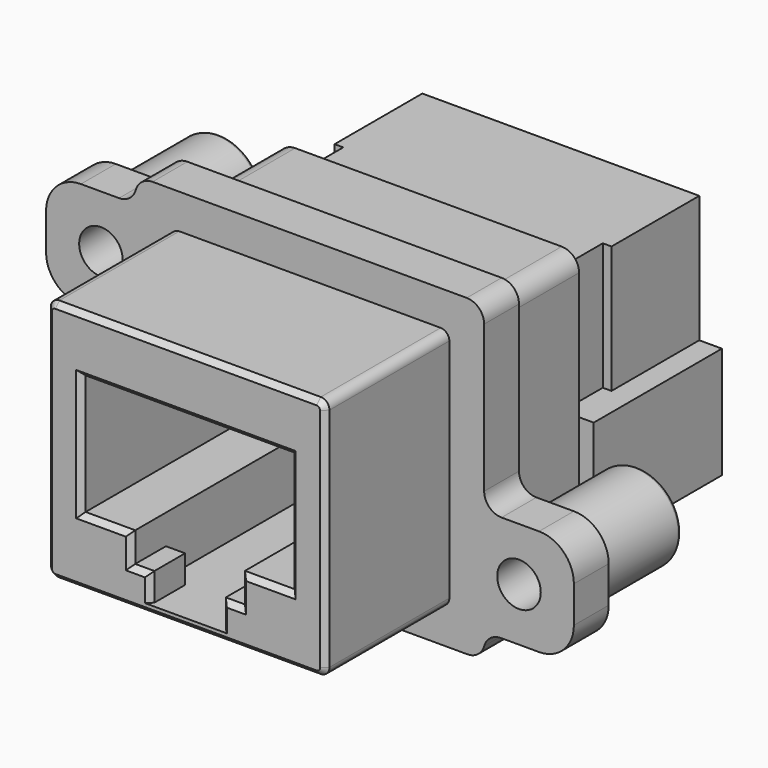
from build123d import *

# Parameters (mm, degrees)
PAD_DEPTH            = 2.5
PAD001_DEPTH         = 8.9
SKETCH002_R          = 2.5
PAD002_DEPTH         = 8.5
PAD003_DEPTH         = 2.4
POCKET_DEPTH         = 8.501
POCKET_DEPTH_BACK    = 8.901
SKETCH014_W          = 1.1
SKETCH014_H          = 1.6
PAD004_DEPTH         = 2.5
SKETCH015_R          = 1.25
POCKET001_DEPTH      = 5.5
SKETCH016_W          = 14.9
SKETCH016_H          = 13
POCKET002_DEPTH      = 2.9
CHAMFER_SIZE         = 0.3
FILLET_R             = 0.5
FILLET001_R          = 0.2
SKETCH024_W          = 0.51
SKETCH024_H          = 0.51
PAD010_DEPTH         = 3.81
PAD010_DEPTH_BACK    = 2.54
ARRAY002_X_COUNT     = 2
ARRAY002_X_PITCH     = 2.54
PAD009_DEPTH         = 0.23
ARRAY001_X_COUNT     = 4
ARRAY001_X_PITCH     = 2.54
PAD008_DEPTH         = 0.23
ARRAY_X_COUNT        = 4
ARRAY_X_PITCH        = 2.54
SKETCH017_W          = 14.9
SKETCH017_H          = 13
PAD005_DEPTH         = 2.9
PAD005_DEPTH_BACK    = 9.5
PAD006_DEPTH         = 9.2
SKETCH019_W          = 0.5
SKETCH019_H          = 13
PAD007_DEPTH         = 6.3
SKETCH020_W          = 14.3
SKETCH020_H          = 9.8
POCKET003_DEPTH      = 5
SKETCH021_W          = 4.5
SKETCH021_H          = 2.54
POCKET004_DEPTH      = 61.796315
POCKET004_DEPTH_BACK = 55.196315


with BuildPart() as body:
    # Sketch → Pad (new body)
    with BuildSketch(Plane.XZ):
        with BuildLine():
            Line((9, 16.7), (-9.038556, 16.7))
            ThreePointArc((-9.038556, 16.7), (-9.640636, 16.498436), (-10, 15.975))
            ThreePointArc((-10.961444, 15.25), (-10.359364, 15.451564), (-10, 15.975))
            Line((-10.961444, 15.25), (-13.15, 15.25))
            ThreePointArc((-13.15, 15.25), (-14.564214, 14.664214), (-15.15, 13.25))
            Line((-15.15, 13.25), (-15.15, 11.15))
            ThreePointArc((-15.15, 11.15), (-14.564214, 9.735786), (-13.15, 9.15))
            Line((-13.15, 9.15), (-11, 9.15))
            ThreePointArc((-10, 8.15), (-10.292893, 8.857107), (-11, 9.15))
            Line((-10, 8.15), (-10, -0.3))
            ThreePointArc((-10, -0.3), (-9.707107, -1.007107), (-9, -1.3))
            Line((-9, -1.3), (9.038555, -1.3))
            ThreePointArc((9.038555, -1.3), (9.640636, -1.098435), (10, -0.574996))
            ThreePointArc((10.961443, 0.15), (10.359365, -0.051563), (10, -0.574996))
            Line((10.961443, 0.15), (13.15, 0.15))
            ThreePointArc((13.15, 0.15), (14.564214, 0.735786), (15.15, 2.15))
            Line((15.15, 2.15), (15.15, 4.25))
            ThreePointArc((15.15, 4.25), (14.564214, 5.664214), (13.15, 6.25))
            Line((13.15, 6.25), (11, 6.25))
            ThreePointArc((10, 7.25), (10.292893, 6.542893), (11, 6.25))
            Line((10, 7.25), (10, 15.7))
            ThreePointArc((10, 15.7), (9.707107, 16.407107), (9, 16.7))
        make_face()
    extrude(amount=-PAD_DEPTH)

    # Sketch001 → Pad001 (join)
    with BuildSketch(Plane.XZ):
        with BuildLine():
            Line((-7.5, 14.7), (7.5, 14.7))
            ThreePointArc((8, 14.2), (7.853553, 14.553553), (7.5, 14.7))
            Line((8, 14.2), (8, 1.2))
            ThreePointArc((7.5, 0.7), (7.853553, 0.846447), (8, 1.2))
            Line((7.5, 0.7), (-7.5, 0.7))
            ThreePointArc((-8, 1.2), (-7.853553, 0.846447), (-7.5, 0.7))
            Line((-8, 1.2), (-8, 14.2))
            ThreePointArc((-7.5, 14.7), (-7.853553, 14.553553), (-8, 14.2))
        make_face()
    extrude(amount=PAD001_DEPTH)

    # Sketch002 → Pad002 (join)
    with BuildSketch(Plane.XZ):
        with Locations((-12, 12.2)):
            Circle(SKETCH002_R)
        with Locations((12, 3.2)):
            Circle(SKETCH002_R)
        with BuildLine():
            Line((-7.65, 15.4), (7.65, 15.4))
            ThreePointArc((8.65, 14.4), (8.357107, 15.107107), (7.65, 15.4))
            Line((8.65, 14.4), (8.65, 1))
            ThreePointArc((7.65, 0), (8.357107, 0.292893), (8.65, 1))
            Line((7.65, 0), (-7.65, 0))
            ThreePointArc((-8.65, 1), (-8.357107, 0.292893), (-7.65, 0))
            Line((-8.65, 1), (-8.65, 14.4))
            ThreePointArc((-7.65, 15.4), (-8.357107, 15.107107), (-8.65, 14.4))
        make_face()
    extrude(amount=-PAD002_DEPTH)

    # Sketch003 → Pad003 (join)
    with BuildSketch(Plane.XY):
        Polygon((-5, 7.54), (-5.85, 6.5), (-5, 5.46), (-4.15, 6.5), align=None)
        Polygon((5, 5.65), (3.96, 6.5), (5, 7.35), (6.04, 6.5), align=None)
    extrude(amount=-PAD003_DEPTH)

    # Sketch013 → Pocket (cut, two sides)
    with BuildSketch(Plane.XZ) as pocket_sk:
        Polygon((-6, 11.4), (6, 11.4), (6, 4.5), (3.15, 4.5), (3.15, 1.2), (-3.15, 1.2), (-3.15, 4.5), (-6, 4.5), align=None)
    extrude(amount=-POCKET_DEPTH, mode=Mode.SUBTRACT)
    extrude(pocket_sk.sketch, amount=POCKET_DEPTH_BACK, mode=Mode.SUBTRACT)

    # Sketch014 → Pad004 (join)
    with BuildSketch(Plane.XZ.offset(8.9)):
        with Locations((-2.6, 2)):
            Rectangle(SKETCH014_W, SKETCH014_H)
        with Locations((2.6, 2)):
            Rectangle(SKETCH014_W, SKETCH014_H)
    extrude(amount=-PAD004_DEPTH)

    # Sketch015 → Pocket001 (cut)
    with BuildSketch(Plane.XZ):
        with Locations((-12, 12.2)):
            Circle(SKETCH015_R)
        with Locations((12, 3.2)):
            Circle(SKETCH015_R)
    extrude(amount=-POCKET001_DEPTH, mode=Mode.SUBTRACT)

    # Sketch016 → Pocket002 (cut)
    with BuildSketch(Plane.XZ.offset(-8.5)):
        with Locations((0, 7.7)):
            Rectangle(SKETCH016_W, SKETCH016_H)
    extrude(amount=POCKET002_DEPTH, mode=Mode.SUBTRACT)

    # Chamfer
    chamfer_edges = [body.edges().sort_by_distance(p)[0] for p in [
        (0, -8.9, 14.7),
        (0, -8.9, 11.4),
        (-6, -8.9, 7.95),
        (6, -8.9, 7.95),
        (4.575, -8.9, 4.5),
        (-4.575, -8.9, 4.5),
        (-3.15, -8.9, 3.65),
        (-2.05, -8.9, 2),
        (-2.6, -8.9, 2.8),
        (3.15, -8.9, 3.65),
        (2.6, -8.9, 2.8),
        (2.05, -8.9, 2),
    ]]
    chamfer(chamfer_edges, length=CHAMFER_SIZE)

    # Fillet
    fillet_edges = [body.edges().sort_by_distance(p)[0] for p in [
        (9.5, 2.5, 3.2),
        (-14.5, 2.5, 12.2),
    ]]
    fillet(fillet_edges, radius=FILLET_R)

    # Fillet001
    fillet001_edges = [body.edges().sort_by_distance(p)[0] for p in [
        (-14.5, 8.5, 12.2),
        (9.5, 8.5, 3.2),
    ]]
    fillet(fillet001_edges, radius=FILLET001_R)


with BuildPart() as array002:
    # Sketch024 → Pad010 (new body, two sides)
    with BuildSketch(Plane.XY) as pad010_sk:
        with Locations((-6.53, 10.5)):
            Rectangle(SKETCH024_W, SKETCH024_H)
    extrude(amount=PAD010_DEPTH)
    extrude(pad010_sk.sketch, amount=-PAD010_DEPTH_BACK)

    # Array002 X: Array002 ×2


with BuildPart() as array002_1:
    add(array002.part)
    with Locations(*[(i * ARRAY002_X_PITCH, 0, 0) for i in range(1, ARRAY002_X_COUNT)]):
        add(array002.part)


with BuildPart() as array001:
    # Sketch023 → Pad009 (new body, symmetric)
    with BuildSketch(Plane.YZ):
        with BuildLine():
            Line((14.68, -2.54), (14.68, 12.3))
            Line((14.68, 12.3), (5.385386, 12.3))
            ThreePointArc((-5.729386, 12.3), (-0.172, 10.26), (5.385386, 12.3))
            Line((-5.729386, 12.3), (-6.36, 12.3))
            Line((-6.36, 12.3), (-6.36, 11.94))
            Line((-6.36, 11.94), (-5.86, 11.94))
            ThreePointArc((-5.86, 11.94), (-0.172, 9.9), (5.516, 11.94))
            Line((5.516, 11.94), (14.32, 11.94))
            Line((14.32, 11.94), (14.32, -2.54))
            Line((14.32, -2.54), (14.68, -2.54))
        make_face()
    extrude(amount=PAD009_DEPTH, both=True)

    # Array001 X: Array001 ×4


with BuildPart() as array001_1:
    add(array001.part)
    with Locations(*[(i * ARRAY001_X_PITCH, 0, 0) for i in range(1, ARRAY001_X_COUNT)]):
        add(array001.part)


with BuildPart() as array001_2:
    # Array001 placement: moved
    add(array001_1.part.moved(Location((-4.44, 0, 0))))


with BuildPart() as array:
    # Sketch022 → Pad008 (new body, symmetric)
    with BuildSketch(Plane.YZ):
        with BuildLine():
            Line((17.22, -2.54), (17.22, 12.3))
            Line((17.22, 12.3), (5.385386, 12.3))
            ThreePointArc((-5.729386, 12.3), (-0.172, 10.26), (5.385386, 12.3))
            Line((-5.729386, 12.3), (-6.36, 12.3))
            Line((-6.36, 12.3), (-6.36, 11.94))
            Line((-6.36, 11.94), (-5.86, 11.94))
            ThreePointArc((-5.86, 11.94), (-0.172, 9.9), (5.516, 11.94))
            Line((5.516, 11.94), (16.86, 11.94))
            Line((16.86, 11.94), (16.86, -2.54))
            Line((16.86, -2.54), (17.22, -2.54))
        make_face()
    extrude(amount=PAD008_DEPTH, both=True)

    # Array X: Array ×4


with BuildPart() as array_1:
    add(array.part)
    with Locations(*[(i * ARRAY_X_PITCH, 0, 0) for i in range(1, ARRAY_X_COUNT)]):
        add(array.part)


with BuildPart() as array_2:
    # Array placement: moved
    add(array_1.part.moved(Location((-3.17, 0, 0))))


with BuildPart() as body005:
    # Part__Mirroring: instance of Array002
    add(array002_1.part.mirror(Plane(origin=(0, 0, 0), x_dir=(0, -1, 0), z_dir=(1, 0, 0))))

    # Compound: union Array002, Array001, Array
    add(array002_1.part)
    add(array001_2.part)
    add(array_2.part)


with BuildPart() as cut:
    # Sketch017 → Pad005 (new body, two sides)
    with BuildSketch(Plane.XZ) as pad005_sk:
        with Locations((0, 7.7)):
            Rectangle(SKETCH017_W, SKETCH017_H)
    extrude(amount=PAD005_DEPTH)
    extrude(pad005_sk.sketch, amount=-PAD005_DEPTH_BACK)

    # Sketch018 → Pad006 (join)
    with BuildSketch(Plane.XZ.offset(-9.5)):
        Polygon((-9.25, 6.9), (-7.45, 6.9), (-7.45, 1.2), (7.45, 1.2), (7.45, 6.9), (9.25, 6.9), (9.25, 0.5), (-9.25, 0.5), align=None)
    extrude(amount=PAD006_DEPTH)

    # Sketch019 → Pad007 (join)
    with BuildSketch(Plane.XZ.offset(-9.5)):
        with Locations((7.7, 7.7)):
            Rectangle(SKETCH019_W, SKETCH019_H)
    pad007 = extrude(amount=PAD007_DEPTH)

    # Mirrored: Pad007 across Sketch019 V_Axis
    add(pad007.mirror(Plane(origin=(0, 9.5, 0), x_dir=(0, -1, 0), z_dir=(1, 0, 0))))

    # Sketch020 → Pocket003 (cut)
    with BuildSketch(Plane.XZ.offset(-9.5)):
        with Locations((0, 7.4)):
            Rectangle(SKETCH020_W, SKETCH020_H)
    extrude(amount=POCKET003_DEPTH, mode=Mode.SUBTRACT)

    # Sketch021 → Pocket004 (cut, two sides)
    with BuildSketch(Plane.XZ) as pocket004_sk:
        with Locations((-4.9, 3.77)):
            Rectangle(SKETCH021_W, SKETCH021_H)
    pocket004 = extrude(amount=-POCKET004_DEPTH, mode=Mode.SUBTRACT) + extrude(pocket004_sk.sketch, amount=POCKET004_DEPTH_BACK, mode=Mode.SUBTRACT)

    # Mirrored001: Pocket004 across Sketch021 V_Axis
    add(pocket004.mirror(Plane(origin=(0, 0, 0), x_dir=(0, -1, 0), z_dir=(1, 0, 0))), mode=Mode.SUBTRACT)


with BuildPart() as cut_1:
    # Body001 placement: moved
    add(cut.part.moved(Location((0, 8.5, 0))))

    # Cut: cut Body005
    add(body005.part, mode=Mode.SUBTRACT)


solid = Compound([body.part, cut_1.part])
